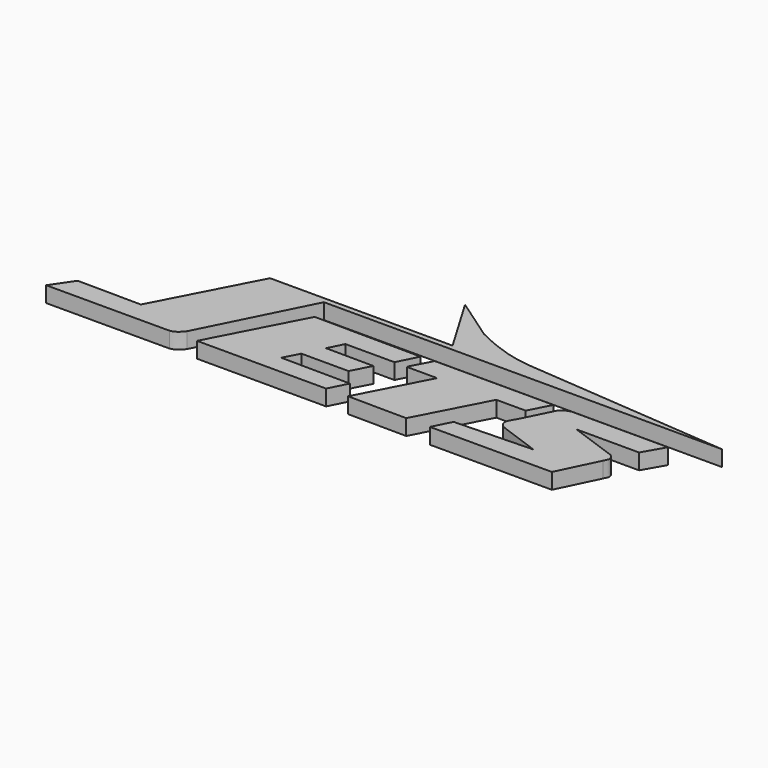
from build123d import *

# Parameters (mm, degrees)
F1_DEPTH = 2


with BuildPart() as f1:
    # F0 (on Top) → F1 (new body)
    with BuildSketch(Plane.XY):
        with BuildLine():
            Line((9.9536469206, 2.8174053878), (1.8566801446, 2.8869523667))
            Line((1.8566801446, 2.8869523667), (0.0092345044, 0.1798552403))
            Line((0.0092345044, 0.1798552403), (15.6612657011, 0.1946620469))
            add(Edge.make_bspline(
                [(15.6612657011, 0.1946620469), (15.8230457266, 0.2281823056), (16.1585921255, 0.2977063528), (16.6514778748, 0.6242701097), (16.9577417021, 1.0001687548), (17.1211827546, 1.2007711921)],
                knots=[0, 0, 0, 0, 0.3027331314, 0.6278958833, 1, 1, 1, 1], degree=3))
            Line((17.1211827546, 1.2007711921), (23.8293986768, 14.5588666201))
            Line((23.8293986768, 14.5588666201), (74.4310542941, 14.5588666201))
            Line((74.4310542941, 14.5588666201), (47.9988604784, 16.7051292956))
            add(Edge.make_bspline(
                [(47.9988604784, 16.7051292956), (47.8096775677, 16.7363682019), (47.3431497551, 16.8134037997), (45.9777756708, 17.0267450866), (44.0975826202, 17.5610655971), (42.1922812666, 18.329325656), (41.0668243334, 18.8742033544), (40.5201017857, 19.1388931125)],
                knots=[0, 0, 0, 0, 0.128570723, 0.3170572751, 0.5463912938, 0.7796467371, 1, 1, 1, 1], degree=3))
            Line((40.5201017857, 19.1388931125), (35.0988097489, 22.8986144066))
            Line((35.0988097489, 22.8986144066), (39.6348685026, 15.2468103915))
            Line((39.6348685026, 15.2468103915), (16.4289344102, 15.2468103915))
            Line((16.4289344102, 15.2468103915), (9.9536469206, 2.8174053878))
        make_face()
    extrude(amount=F1_DEPTH)


with BuildPart() as f1b:
    # F0 (on Top) → F1, piece 2 (new body)
    with BuildSketch(Plane.XY):
        Polygon((25.0818674452, 11.5194685599), (19.1823914647, 0.1953418105), (35.6020256233, 0.1910578924), (36.7674244144, 2.5117208591), (27.978917565, 2.5872076577), (28.9881657809, 4.5244737397), (34.9843449121, 4.5244737397), (36.2305141462, 6.9165130336), (30.170893345, 6.9685607117), (31.1214029789, 8.8613140968), (37.3561011948, 8.8613140968), (38.6325334037, 11.4030783232), align=None)
    extrude(amount=F1_DEPTH)


with BuildPart() as f1c:
    # F0 (on Top) → F1, piece 3 (new body)
    with BuildSketch(Plane.XY):
        Polygon((40.323175932, 11.5464127269), (38.9707796276, 8.9504690841), (38.9707796276, 8.834216421), (42.7982492324, 8.8332178259), (38.3315689349, 0.259362452), (45.7851350839, 0.1953418105), (50.3013804555, 8.8643380381), (54.0311330535, 8.8643380381), (55.4284006357, 11.5464127269), align=None)
    extrude(amount=F1_DEPTH)


with BuildPart() as f1d:
    # F0 (on Top) → F1, piece 4 (new body)
    with BuildSketch(Plane.XY):
        with BuildLine():
            Line((49.9568315862, 2.5117208591), (48.7935841084, 0.1953418105))
            Line((48.7935841084, 0.1953418105), (64.3005892634, 0.1953418105))
            Line((64.3005892634, 0.1953418105), (66.7456910014, 5.2469656803))
            add(Edge.make_bspline(
                [(66.5581822395, 6.6960989498), (66.6872070802, 6.5872148135), (66.9336331603, 6.3792557046), (67.0553482952, 5.9359708808), (66.962957301, 5.7302306954), (66.828224861, 5.4305455866), (66.7456910014, 5.2469656803)],
                knots=[0, 0, 0, 0, 0.2775927016, 0.5301776076, 0.7121980765, 1, 1, 1, 1], degree=3))
            Line((66.5581822395, 6.6960989498), (60.5144836009, 8.8705513626))
            Line((60.5144836009, 8.8705513626), (68.44484061, 8.8705513626))
            Line((68.44484061, 8.8705513626), (69.97974962, 11.5464127269))
            Line((69.97974962, 11.5464127269), (57.67916888, 11.5464127269))
            add(Edge.make_bspline(
                [(56.4427152276, 10.7572088018), (56.5097757599, 10.8247017337), (56.6550063566, 10.9708687624), (56.9013644515, 11.2901557643), (57.4332747424, 11.4411156616), (57.6075265449, 11.5157339653), (57.67916888, 11.5464127269)],
                knots=[0, 0, 0, 0, 0.2238252163, 0.4847302664, 0.788150674, 1, 1, 1, 1], degree=3))
            Line((56.4427152276, 10.7572088018), (54.5217879117, 6.8986215629))
            add(Edge.make_bspline(
                [(54.5217879117, 4.7480957583), (54.4182614649, 4.8313741255), (54.1927501106, 5.0127791477), (53.86783776, 5.559047292), (54.0763350433, 6.2037458312), (54.3665019825, 6.6563862304), (54.5217879117, 6.8986215629)],
                knots=[0, 0, 0, 0, 0.2072963417, 0.4515530113, 0.7064927503, 1, 1, 1, 1], degree=3))
            Line((54.5217879117, 4.7480957583), (59.8580613732, 2.8174053878))
            Line((59.8580613732, 2.8174053878), (49.9568315862, 2.5117208591))
        make_face()
    extrude(amount=F1_DEPTH)


solid = Compound([f1.part, f1b.part, f1c.part, f1d.part])
